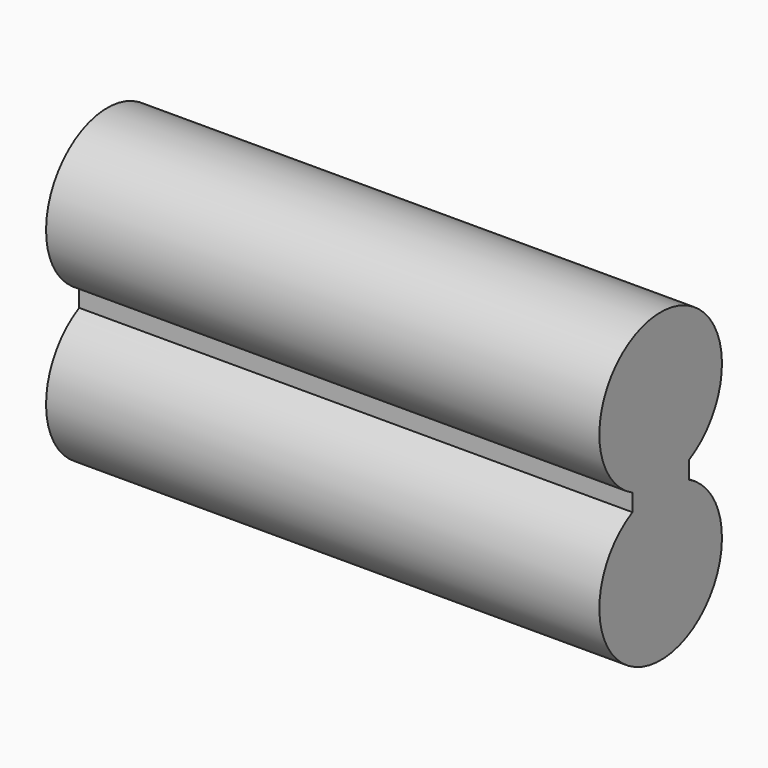
from build123d import *

# Parameters (mm, degrees)
PAD_DEPTH = 32.5


with BuildPart() as part:
    # Sketch → Pad (new body, symmetric)
    with BuildSketch(Plane.YZ):
        with BuildLine():
            ThreePointArc((4.14119, -17.990653), (0, -1), (-4.14119, -17.990653))
            Line((-4.14119, -20.009347), (-4.14119, -17.990653))
            ThreePointArc((-4.14119, -20.009347), (0, -37), (4.14119, -20.009347))
            Line((4.14119, -17.990653), (4.14119, -20.009347))
        make_face()
    extrude(amount=PAD_DEPTH, both=True)


solid = part.part
